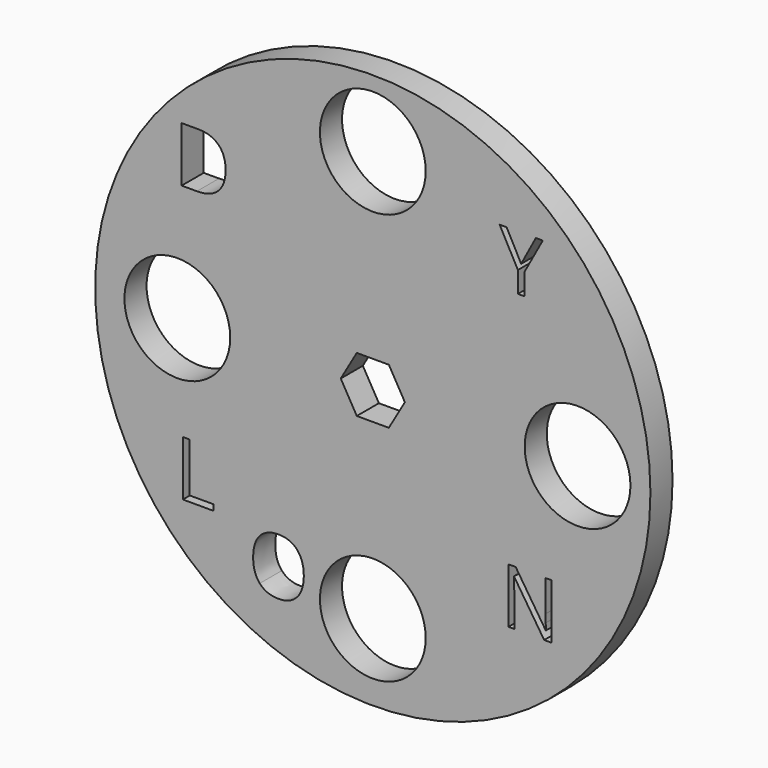
from build123d import *

# Parameters (mm, degrees)
F0_R     = 50
F0_R_2   = 9.525
F1_DEPTH = 4.9784


with BuildPart() as f1:
    # F0 (on Front) → F1 (new body)
    with BuildSketch(Plane.XZ):
        Circle(F0_R)
        with BuildLine():
            add(Edge.make_bspline(
                [(-13.6288838135, -29.7163466199), (-12.4287970079, -31.0726834254), (-12.4287970079, -33.4598362032)],
                knots=[0, 0, 0, 1, 1, 1], degree=2))
            add(Edge.make_bspline(
                [(-12.4287970079, -33.4598362032), (-12.4287970079, -35.8404785643), (-13.6332240912, -37.204410856)],
                knots=[0, 0, 0, 1, 1, 1], degree=2))
            add(Edge.make_bspline(
                [(-13.6332240912, -37.204410856), (-14.8376511746, -38.5683431476), (-16.9795782579, -38.5683431476)],
                knots=[0, 0, 0, 1, 1, 1], degree=2))
            add(Edge.make_bspline(
                [(-16.9795782579, -38.5683431476), (-19.1692483968, -38.5683431476), (-20.3595695774, -37.2282823837)],
                knots=[0, 0, 0, 1, 1, 1], degree=2))
            add(Edge.make_bspline(
                [(-20.3595695774, -37.2282823837), (-21.5498907579, -35.8882216199), (-21.5498907579, -33.4468153699)],
                knots=[0, 0, 0, 1, 1, 1], degree=2))
            add(Edge.make_bspline(
                [(-21.5498907579, -33.4468153699), (-21.5498907579, -31.0249403699), (-20.356314369, -29.6924750921)],
                knots=[0, 0, 0, 1, 1, 1], degree=2))
            add(Edge.make_bspline(
                [(-20.356314369, -29.6924750921), (-19.1627379801, -28.3600098143), (-16.9665574246, -28.3600098143)],
                knots=[0, 0, 0, 1, 1, 1], degree=2))
            add(Edge.make_bspline(
                [(-16.9665574246, -28.3600098143), (-14.828970619, -28.3600098143), (-13.6288838135, -29.7163466199)],
                knots=[0, 0, 0, 1, 1, 1], degree=2))
        make_face(mode=Mode.SUBTRACT)
        Polygon((-28.6808658119, -28.4316243976), (-34.2082095619, -28.4316243976), (-34.2082095619, -18.5162598143), (-33.0558658119, -18.5162598143), (-33.0558658119, -27.3877875921), (-28.6808658119, -27.3877875921), align=None, mode=Mode.SUBTRACT)
        with Locations((0, -36.1784361303)):
            Circle(F0_R_2, mode=Mode.SUBTRACT)
        with BuildLine():
            Line((32.1758840849, -19.6333272258), (32.1758840849, -29.5486918092))
            Line((32.1758840849, -29.5486918092), (30.8607799182, -29.5486918092))
            Line((30.8607799182, -29.5486918092), (25.4419431127, -21.2283793092))
            Line((25.4419431127, -21.2283793092), (25.3876896404, -21.2283793092))
            add(Edge.make_bspline(
                [(25.3876896404, -21.2283793092), (25.4961965849, -22.6932230592), (25.4961965849, -23.9128411147)],
                knots=[0, 0, 0, 1, 1, 1], degree=2))
            Line((25.4961965849, -23.9128411147), (25.4961965849, -29.5486918092))
            Line((25.4961965849, -29.5486918092), (24.4306583904, -29.5486918092))
            Line((24.4306583904, -29.5486918092), (24.4306583904, -19.6333272258))
            Line((24.4306583904, -19.6333272258), (25.7327417238, -19.6333272258))
            Line((25.7327417238, -19.6333272258), (31.138557696, -27.9210876425))
            Line((31.138557696, -27.9210876425), (31.1928111682, -27.9210876425))
            add(Edge.make_bspline(
                [(31.1928111682, -27.9210876425), (31.1797903349, -27.7387959758), (31.1320472793, -26.7448723647)],
                knots=[0, 0, 0, 1, 1, 1], degree=2))
            add(Edge.make_bspline(
                [(31.1320472793, -26.7448723647), (31.0843042238, -25.7509487536), (31.0973250571, -25.3234313925)],
                knots=[0, 0, 0, 1, 1, 1], degree=2))
            Line((31.0973250571, -25.3234313925), (31.0973250571, -19.6333272258))
            Line((31.0973250571, -19.6333272258), (32.1758840849, -19.6333272258))
        make_face(mode=Mode.SUBTRACT)
        with Locations((-35.2043993771, 0)):
            Circle(F0_R_2, mode=Mode.SUBTRACT)
        with BuildLine():
            add(Edge.make_bspline(
                [(-27.7972958, 29.8964257207), (-26.5158287861, 28.6149587068), (-26.5158287861, 26.3146114846)],
                knots=[0, 0, 0, 1, 1, 1], degree=2))
            add(Edge.make_bspline(
                [(-26.5158287861, 26.3146114846), (-26.5158287861, 23.8601844013), (-27.8482940638, 22.5613562763)],
                knots=[0, 0, 0, 1, 1, 1], degree=2))
            add(Edge.make_bspline(
                [(-27.8482940638, 22.5613562763), (-29.1807593416, 21.2625281513), (-31.6829294805, 21.2625281513)],
                knots=[0, 0, 0, 1, 1, 1], degree=2))
            Line((-31.6829294805, 21.2625281513), (-34.4303253138, 21.2625281513))
            Line((-34.4303253138, 21.2625281513), (-34.4303253138, 31.1778927346))
            Line((-34.4303253138, 31.1778927346), (-31.3921308694, 31.1778927346))
            add(Edge.make_bspline(
                [(-31.3921308694, 31.1778927346), (-29.0787628138, 31.1778927346), (-27.7972958, 29.8964257207)],
                knots=[0, 0, 0, 1, 1, 1], degree=2))
        make_face(mode=Mode.SUBTRACT)
        Polygon((-5.7735026919, 0), (-2.8867513459, 5), (2.8867513459, 5), (5.7735026919, 0), (2.8867513459, -5), (-2.8867513459, -5), align=None, mode=Mode.SUBTRACT)
        with Locations((36.8741750717, 0)):
            Circle(F0_R_2, mode=Mode.SUBTRACT)
        with Locations((0, 37.8482080996)):
            Circle(F0_R_2, mode=Mode.SUBTRACT)
        Polygon((24.0917380744, 33.7066756686), (26.7176061299, 28.7479083074), (29.3608352966, 33.7066756686), (30.6086651577, 33.7066756686), (27.2992033522, 27.6367971963), (27.2992033522, 23.7913110852), (26.1338387688, 23.7913110852), (26.1338387688, 27.5825437241), (22.8308873799, 33.7066756686), align=None, mode=Mode.SUBTRACT)
    extrude(amount=F1_DEPTH)


solid = f1.part
